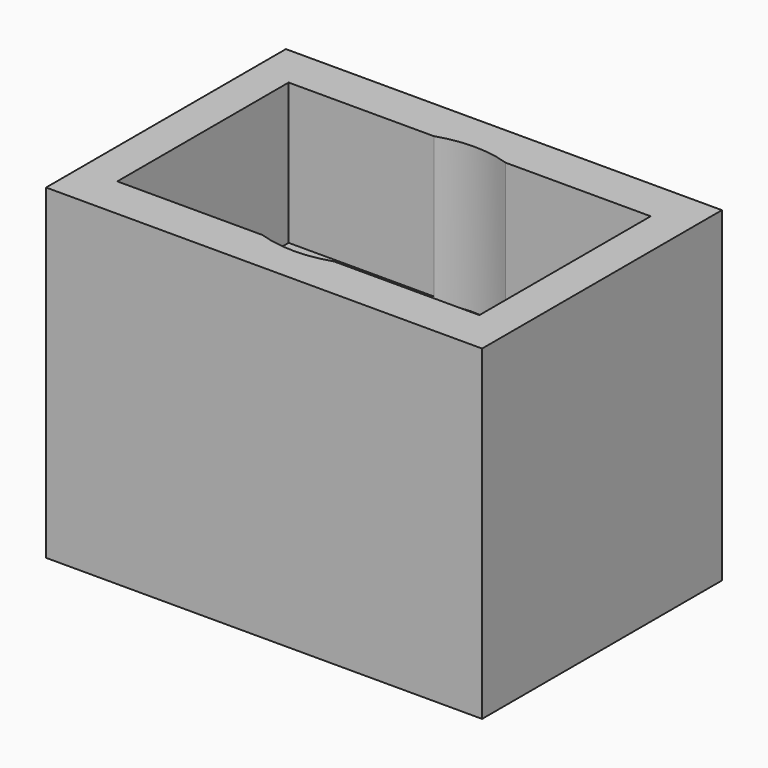
from build123d import *

# Parameters (mm, degrees)
F0_W     = 22.4
F0_H     = 15.4
F0_W_2   = 18.6
F0_H_2   = 11
F1_DEPTH = 16.75
F0_R     = 5.435
F2_DEPTH = 9.5
F3_R     = 5.8
F4_DEPTH = 7.5


with BuildPart() as f1:
    # F0 (on Top) → F1 (new body)
    with BuildSketch(Plane.XY):
        Rectangle(F0_W, F0_H)
        Rectangle(F0_W_2, F0_H_2, mode=Mode.SUBTRACT)
    extrude(amount=F1_DEPTH)

    # F0 (on Top) → F2 (join)
    with BuildSketch(Plane.XY):
        Rectangle(F0_W_2, F0_H_2)
        Circle(F0_R, mode=Mode.SUBTRACT)
        Rectangle(F0_W_2, F0_H_2)
        Circle(F0_R, mode=Mode.SUBTRACT)
    extrude(amount=F2_DEPTH)

    # F3 (on face) → F4 (cut)
    with BuildSketch(Plane.XY.offset(16.75)):
        Circle(F3_R)
    extrude(amount=-F4_DEPTH, mode=Mode.SUBTRACT)


solid = f1.part
